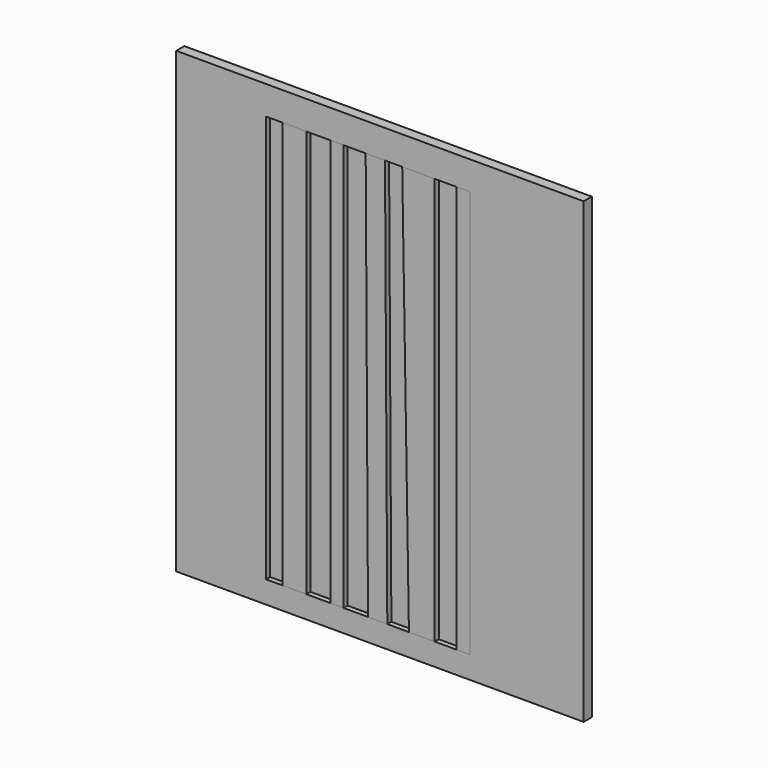
from build123d import *

# Parameters (mm, degrees)
F0_W     = 2.016035
F0_H     = 50.8
F0_W_2   = 2.990041
F0_W_3   = 2.688913
F1_DEPTH = 0.635
F0_W_4   = 2.990043
F0_W_5   = 1.661135
F2_DEPTH = 1.27
F0_W_6   = 50.8
F0_H_2   = 57.15
F3_DEPTH = 1.27


with BuildPart() as f1:
    # F0 (on Front) → F1 (new body)
    with BuildSketch(Plane.XZ):
        with Locations((-34.315511, -16.976795)):
            Rectangle(F0_W, F0_H)
        with Locations((-28.822429, -16.976795)):
            Rectangle(F0_W_2, F0_H)
        Polygon((-22.912512, 8.423205), (-25.666274, 8.423205), (-25.666274, -42.376795), (-22.912512, -42.376795), (-22.623528, -42.376795), align=None)
        Polygon((-18.357284, 8.423205), (-20.505905, 8.423205), (-20.216922, -42.376795), (-17.521333, -42.376795), align=None)
        with Locations((-12.963811, -16.976795)):
            Rectangle(F0_W_3, F0_H)
    extrude(amount=F1_DEPTH)


with BuildPart() as f2:
    # F0 (on Front) → F2 (new body)
    with BuildSketch(Plane.XZ):
        with Locations((-31.812472, -16.976795)):
            Rectangle(F0_W_4, F0_H)
        with Locations((-26.496841, -16.976795)):
            Rectangle(F0_W_5, F0_H)
        Polygon((-20.505905, 8.423205), (-22.912512, 8.423205), (-22.623528, -42.376795), (-20.216922, -42.376795), align=None)
        Polygon((-14.308268, 8.423205), (-18.357284, 8.423205), (-17.521333, -42.376795), (-14.308268, -42.376795), align=None)
        Polygon((-9.923528, 8.423205), (-11.619355, 8.423205), (-11.619355, -42.376795), (-11.311764, -42.376795), (-9.923528, -42.376795), align=None)
    extrude(amount=F2_DEPTH)


with BuildPart() as f3:
    # F0 (on Front) → F3 (new body)
    with BuildSketch(Plane.XZ):
        with Locations((-21.136952, -16.57828)):
            Rectangle(F0_W_6, F0_H_2)
        Polygon((-35.323528, -42.376795), (-35.323528, 8.423205), (-33.307493, 8.423205), (-30.31745, 8.423205), (-27.327409, 8.423205), (-25.666274, 8.423205), (-22.912512, 8.423205), (-20.505905, 8.423205), (-18.357284, 8.423205), (-14.308268, 8.423205), (-11.619355, 8.423205), (-9.923528, 8.423205), (-9.923528, -42.376795), (-11.311764, -42.376795), (-11.619355, -42.376795), (-14.308268, -42.376795), (-17.521333, -42.376795), (-20.216922, -42.376795), (-22.623528, -42.376795), (-22.912512, -42.376795), (-25.666274, -42.376795), (-27.327409, -42.376795), (-30.31745, -42.376795), (-33.307493, -42.376795), align=None, mode=Mode.SUBTRACT)
    extrude(amount=F3_DEPTH)


solid = Compound([f1.part, f2.part, f3.part])
